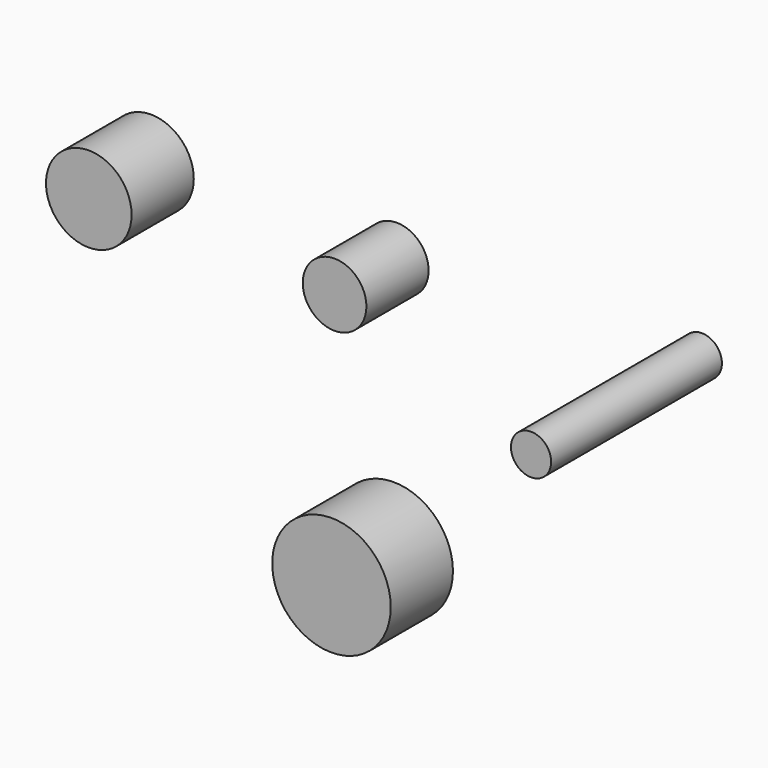
from build123d import *

# Parameters (mm, degrees)
F0_R     = 12.473511
F1_DEPTH = 15.24
F0_R_2   = 7.875851
F4_R     = 16.778104
F5_DEPTH = 30.48
F6_R     = 23.234001
F7_DEPTH = 15.24


with BuildPart() as f1:
    # F0 (on Front) → F1 (new body, symmetric)
    with BuildSketch(Plane.XZ):
        with Locations((-56.675613, 51.165804)):
            Circle(F0_R)
    extrude(amount=F1_DEPTH, both=True)


with BuildPart() as f3:
    # F3: sweep along a path in F2
    with BuildLine(Plane.XY) as f3_path:
        Line((-15.159276, -44.00165), (-15.159276, 39.697319))
    # F0 (on Front) → F3 (sweep)
    with BuildSketch(Plane.XZ):
        with Locations((43.361761, 40.230881)):
            Circle(F0_R_2)
    sweep(path=f3_path.line)


with BuildPart() as f5:
    # F4 (on Front) → F5 (new body)
    with BuildSketch(Plane.XZ):
        with Locations((-140.851051, 63.024946)):
            Circle(F4_R)
    extrude(amount=F5_DEPTH)


with BuildPart() as f7:
    # F6 (on Front) → F7 (new body, symmetric)
    with BuildSketch(Plane.XZ):
        with Locations((-57.889093, -49.516145)):
            Circle(F6_R)
    extrude(amount=F7_DEPTH, both=True)


solid = Compound([f1.part, f3.part, f5.part, f7.part])
